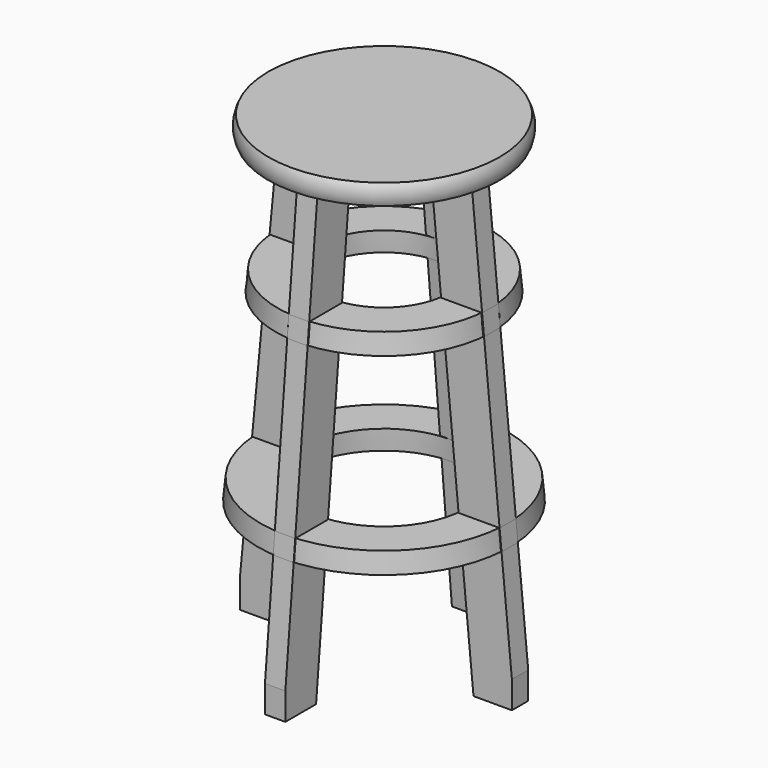
from build123d import *

# Parameters (mm, degrees)
F2_DEPTH = 1.905
F4_DEPTH = 1.905


with BuildPart() as f1:
    # F0 (on Front) → F1 (revolve)
    with BuildSketch(Plane.XZ):
        with BuildLine():
            Line((0, 40.64), (0, 44.45))
            Line((0, 44.45), (-21.59, 44.45))
            ThreePointArc((-21.59, 44.45), (-22.0397094971, 42.545), (-21.59, 40.64))
            Line((-21.59, 40.64), (-17.78, 40.64))
            Line((-17.78, 40.64), (-10.1255201859, 40.64))
            Line((-10.1255201859, 40.64), (0, 40.64))
        make_face()
    revolve(axis=Axis((0, 0, 42.545), (0, 0, 1)))

    # F0 (on Front) → F2 (join, symmetric)
    with BuildSketch(Plane.XZ):
        Polygon((-12.1817106621, 19.05), (-10.1255201859, 40.64), (-17.78, 40.64), (-19.8361904762, 19.05), align=None)
        Polygon((-12.5445678049, 15.24), (-12.1817106621, 19.05), (-19.8361904762, 19.05), (-20.199047619, 15.24), align=None)
        Polygon((-15.4474249478, -15.24), (-12.5445678049, 15.24), (-20.199047619, 15.24), (-23.1019047619, -15.24), align=None)
        Polygon((-23.4647619048, -19.05), (-15.8102820907, -19.05), (-15.4474249478, -15.24), (-23.1019047619, -15.24), align=None)
        Polygon((-25.4, -44.45), (-18.2293297097, -44.45), (-17.7455201859, -39.37), (-15.8102820907, -19.05), (-23.4647619048, -19.05), (-25.4, -39.37), align=None)
        Polygon((15.8102820907, -19.05), (23.4647619048, -19.05), (23.1019047619, -15.24), (15.4474249478, -15.24), align=None)
        Polygon((25.4, -44.45), (25.4, -39.37), (23.4647619048, -19.05), (15.8102820907, -19.05), (17.7455201859, -39.37), (18.2293297097, -44.45), align=None)
        Polygon((15.4474249478, -15.24), (23.1019047619, -15.24), (20.199047619, 15.24), (12.5445678049, 15.24), align=None)
        Polygon((20.199047619, 15.24), (19.8361904762, 19.05), (12.1817106621, 19.05), (12.5445678049, 15.24), align=None)
        Polygon((19.8361904762, 19.05), (17.78, 40.64), (10.1255201859, 40.64), (12.1817106621, 19.05), align=None)
    extrude(amount=F2_DEPTH, both=True)

    # F3 (on Right) → F4 (join, symmetric)
    with BuildSketch(Plane.YZ):
        Polygon((-12.1817106621, 19.05), (-10.1255201859, 40.64), (-17.78, 40.64), (-19.8361904762, 19.05), align=None)
        Polygon((-12.5445678049, 15.24), (-12.1817106621, 19.05), (-19.8361904762, 19.05), (-20.199047619, 15.24), align=None)
        Polygon((19.8361904762, 19.05), (17.78, 40.64), (10.1255201859, 40.64), (12.1817106621, 19.05), align=None)
        Polygon((20.199047619, 15.24), (19.8361904762, 19.05), (12.1817106621, 19.05), (12.5445678049, 15.24), align=None)
        Polygon((15.4474249478, -15.24), (23.1019047619, -15.24), (20.199047619, 15.24), (12.5445678049, 15.24), align=None)
        Polygon((-15.4474249478, -15.24), (-12.5445678049, 15.24), (-20.199047619, 15.24), (-23.1019047619, -15.24), align=None)
        Polygon((-23.4647619048, -19.05), (-15.8102820907, -19.05), (-15.4474249478, -15.24), (-23.1019047619, -15.24), align=None)
        Polygon((-25.4, -44.45), (-18.2293297097, -44.45), (-17.7455201859, -39.37), (-15.8102820907, -19.05), (-23.4647619048, -19.05), (-25.4, -39.37), align=None)
        Polygon((25.4, -44.45), (25.4, -39.37), (23.4647619048, -19.05), (15.8102820907, -19.05), (17.7455201859, -39.37), (18.2293297097, -44.45), align=None)
        Polygon((15.8102820907, -19.05), (23.4647619048, -19.05), (23.1019047619, -15.24), (15.4474249478, -15.24), align=None)
    extrude(amount=F4_DEPTH, both=True)


with BuildPart() as f5:
    # F3 (on Right) → F5 (revolve)
    with BuildSketch(Plane.YZ):
        Polygon((20.199047619, 15.24), (19.8361904762, 19.05), (12.1817106621, 19.05), (12.5445678049, 15.24), align=None)
    revolve(axis=Axis((0, 0, 4.0361245537), (0, 0, -1)))


with BuildPart() as f6:
    # F3 (on Right) → F6 (revolve)
    with BuildSketch(Plane.YZ):
        Polygon((15.8102820907, -19.05), (23.4647619048, -19.05), (23.1019047619, -15.24), (15.4474249478, -15.24), align=None)
    revolve(axis=Axis((0, 0, 4.0361245537), (0, 0, -1)))


solid = Compound([f1.part, f5.part, f6.part])
